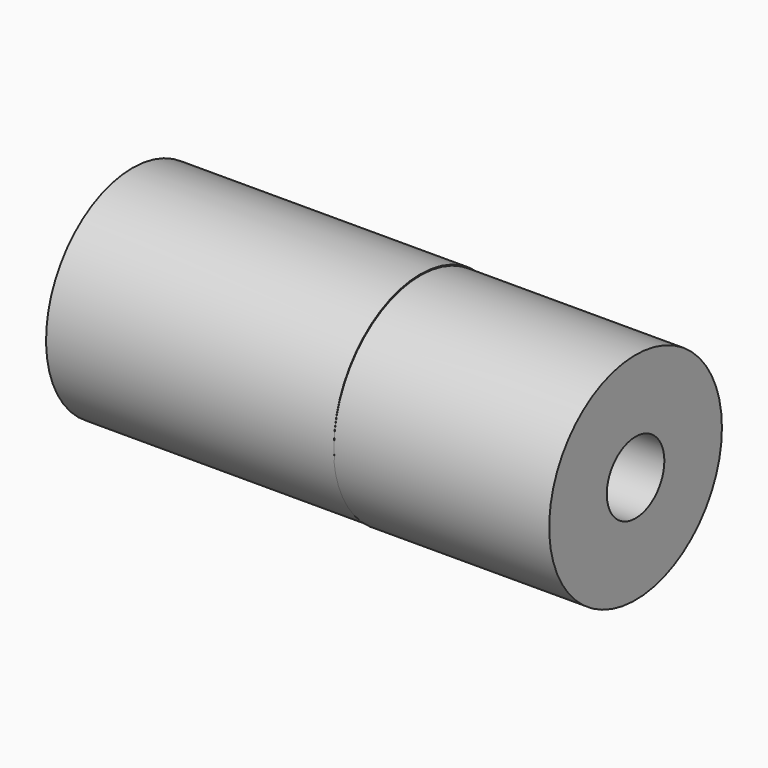
from build123d import *

# Parameters (mm, degrees)
CYLINDER022_R     = 3
CYLINDER022_DEPTH = 8
TUBE001_R         = 3
TUBE001_R_2       = 1
TUBE001_DEPTH     = 6


with BuildPart() as cylinder022:
    # Cylinder022 → Cylinder022 (new body)
    with BuildSketch(Plane(origin=(28.57, 150.463, 13.35), x_dir=(0, 0, 1), z_dir=(-1, 0, 0))):
        Circle(CYLINDER022_R)
    extrude(amount=CYLINDER022_DEPTH)


with BuildPart() as fusion001:
    # Tube001 → Tube001 (new body)
    with BuildSketch(Plane(origin=(34.552, 150.466, 13.322), x_dir=(0, 1, 0), z_dir=(-1, 0, 0))):
        Circle(TUBE001_R)
        Circle(TUBE001_R_2, mode=Mode.SUBTRACT)
    extrude(amount=TUBE001_DEPTH)

    # Fusion001: union Cylinder022
    add(cylinder022.part)


with BuildPart() as fusion001_1:
    # Fusion001 placement: moved
    add(fusion001.part.moved(Location((-23.031, 0, -0.09))))


solid = fusion001_1.part
